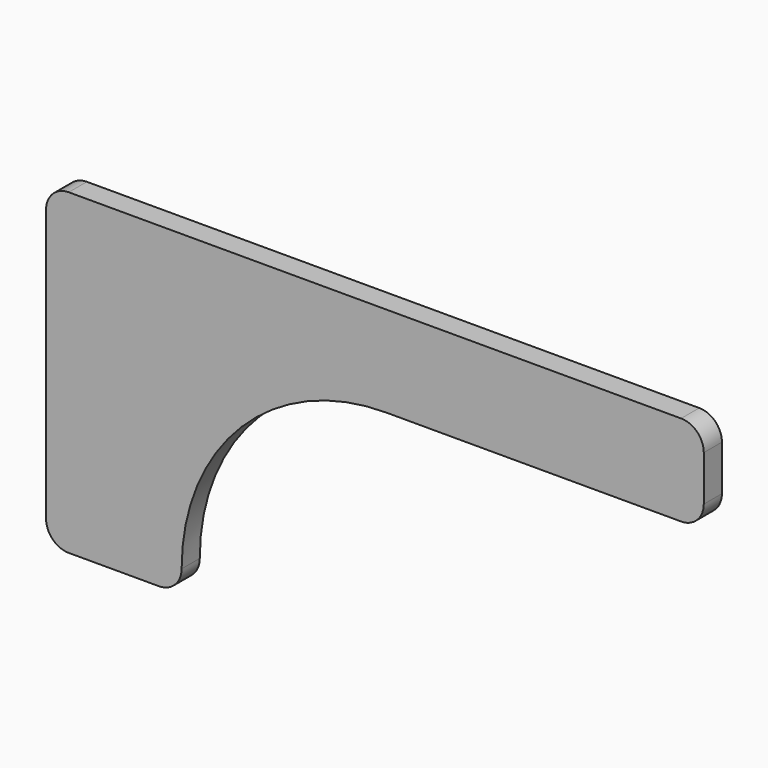
from build123d import *

# Parameters (mm, degrees)
F1_DEPTH = 6.35


with BuildPart() as f1:
    # F0 (on Front) → F1 (new body)
    with BuildSketch(Plane.XZ):
        with BuildLine():
            Line((92.0749746, 25.4000508), (92.0749746, 38.1000508))
            ThreePointArc((92.0749746, 38.1000508), (90.2151026605, 42.5901788605), (85.7249746, 44.4500508))
            Line((85.7249746, 44.4500508), (-85.725, 44.4500508))
            ThreePointArc((-85.725, 44.4500508), (-90.2151370408, 42.5901698803), (-92.075, 38.1000254))
            Line((-92.075, 38.1000254), (-92.0747714, -38.1000762))
            ThreePointArc((-92.0747713999, -38.1000762), (-90.2148815, -42.590196821), (-85.724746, -44.4500507999))
            Line((-85.724746, -44.4500508), (-60.475368, -44.4499746))
            ThreePointArc((-60.475368, -44.4499745999), (-55.9852563592, -42.5900936803), (-54.1253934, -38.0999746))
            ThreePointArc((-54.1253934, -38.0999746), (-37.3865549251, 2.3111943646), (3.0246066, 19.0500508))
            Line((3.0246066, 19.0500508), (85.7249746, 19.0500508))
            ThreePointArc((85.7249746, 19.0500508), (90.2151026605, 20.9099227395), (92.0749746, 25.4000508))
        make_face()
    extrude(amount=F1_DEPTH)


solid = f1.part
